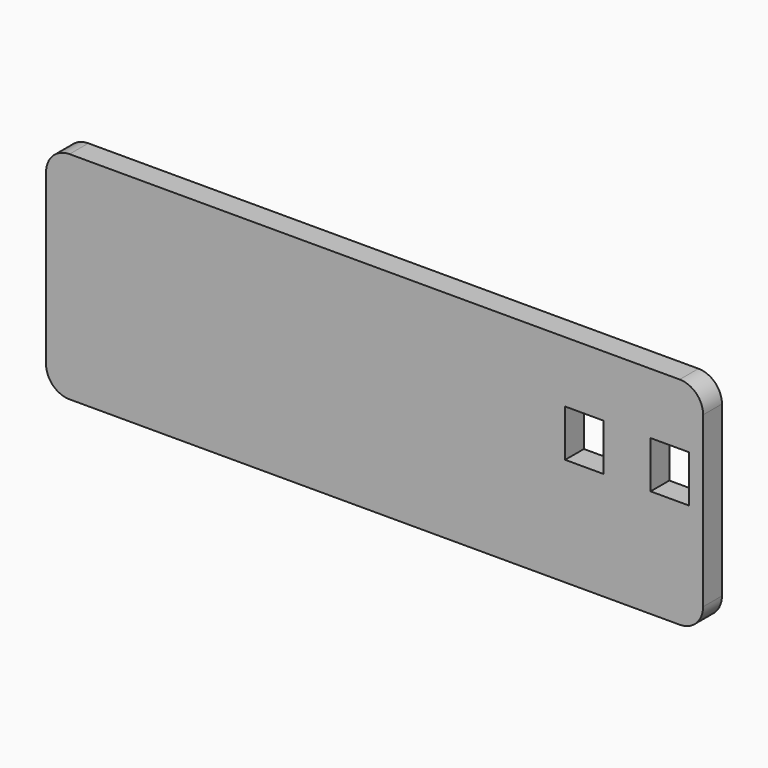
from build123d import *

# Parameters (mm, degrees)
F0_W     = 45
F0_H     = 46
F0_W_2   = 8.2
F0_H_2   = 10
F0_W_3   = 95
F1_DEPTH = 5
F2_DEPTH = 25
F3_R     = 5


with BuildPart() as f1:
    # F0 (on Front) → F1 (new body, symmetric)
    with BuildSketch(Plane.XZ):
        with Locations((47.5, 0)):
            Rectangle(F0_W, F0_H)
        with Locations((44.7, 5)):
            Rectangle(F0_W_2, F0_H_2, mode=Mode.SUBTRACT)
        with Locations((62.9, 5)):
            Rectangle(F0_W_2, F0_H_2, mode=Mode.SUBTRACT)
        with Locations((-22.5, 0)):
            Rectangle(F0_W_3, F0_H)
    extrude(amount=F1_DEPTH, both=True)

    # F0 (on Front) → F2 (cut)
    with BuildSketch(Plane.XZ):
        with Locations((47.5, 0)):
            Rectangle(F0_W, F0_H)
        with Locations((44.7, 5)):
            Rectangle(F0_W_2, F0_H_2, mode=Mode.SUBTRACT)
        with Locations((62.9, 5)):
            Rectangle(F0_W_2, F0_H_2, mode=Mode.SUBTRACT)
        with Locations((-22.5, 0)):
            Rectangle(F0_W_3, F0_H)
    extrude(amount=-F2_DEPTH, mode=Mode.SUBTRACT)

    # F3
    f3_edges = [f1.edges().sort_by_distance(p)[0] for p in [
        (-70, -2.5, 23),
        (-70, -2.5, -23),
        (70, -2.5, 23),
        (70, -2.5, -23),
    ]]
    fillet(f3_edges, radius=F3_R)


solid = f1.part
